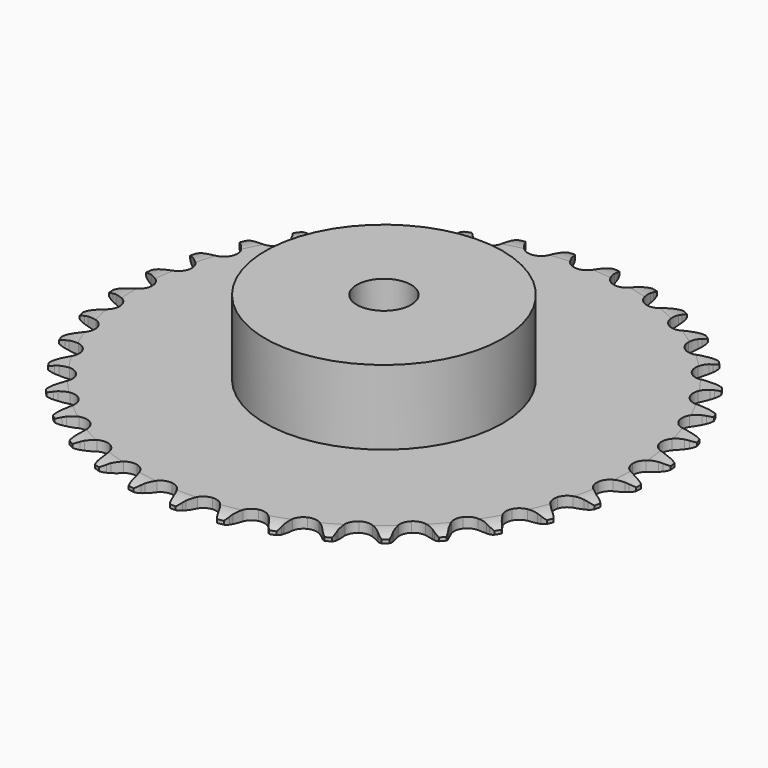
from build123d import *

# Parameters (mm, degrees)
PAD_DEPTH         = 3
SKETCH001_R       = 35
PAD001_DEPTH      = 25
SKETCH002_R       = 8
POCKET_DEPTH      = 0.001
POCKET_DEPTH_BACK = 25.001


with BuildPart() as part:
    # Sprocket → Pad (new body)
    with BuildSketch(Plane.XY):
        with BuildLine():
            ThreePointArc((-6.698559, 78.702366), (-5.642748, 77.523615), (-4.915144, 76.118346))
            Line((-4.915144, 76.118346), (-4.537139, 75.087359))
            ThreePointArc((-4.537139, 75.087359), (-3.938762, 73.75943), (-3.156175, 72.531014))
            ThreePointArc((-3.156175, 72.531014), (-1.766273, 71.36335), (0, 70.944369))
            ThreePointArc((0, 70.944369), (1.766273, 71.36335), (3.156175, 72.531014))
            ThreePointArc((3.156175, 72.531014), (3.938762, 73.75943), (4.537139, 75.087359))
            Line((4.537139, 75.087359), (4.915144, 76.118346))
            ThreePointArc((4.915144, 76.118346), (5.642748, 77.523615), (6.698559, 78.702366))
            ThreePointArc((6.698559, 78.702366), (7.539972, 77.362137), (8.019619, 75.854116))
            Line((8.019619, 75.854116), (8.217949, 74.774076))
            ThreePointArc((8.217949, 74.774076), (8.583298, 73.364122), (9.147025, 72.021117))
            ThreePointArc((9.147025, 72.021117), (10.319598, 70.635355), (11.989657, 69.923899))
            ThreePointArc((11.989657, 69.923899), (13.801331, 70.038352), (15.368577, 70.954325))
            Line((15.368577, 70.954325), (17.161702, 73.240515))
            ThreePointArc((17.161702, 73.240515), (17.422194, 73.724065), (17.708507, 74.192789))
            ThreePointArc((17.708507, 74.192789), (18.663137, 75.454879), (19.90297, 76.438243))
            ThreePointArc((19.90297, 76.438243), (20.505781, 74.975092), (20.723672, 73.407701))
            Line((20.723672, 73.407701), (20.736621, 72.309679))
            ThreePointArc((20.736621, 72.309679), (20.858431, 70.858261), (21.187081, 69.439304))
            ThreePointArc((21.187081, 69.439304), (22.108593, 67.875309), (23.634393, 66.891846))
            ThreePointArc((23.634393, 66.891846), (25.439351, 66.698478), (27.138853, 67.336409))
            Line((27.138853, 67.336409), (29.292553, 69.286676))
            ThreePointArc((29.292553, 69.286676), (29.631019, 69.719247), (29.992428, 70.132841))
            ThreePointArc((29.992428, 70.132841), (31.146621, 71.215444), (32.53481, 71.97513))
            ThreePointArc((32.53481, 71.97513), (32.881676, 70.43115), (32.831543, 68.849481))
            Line((32.831543, 68.849481), (32.658739, 67.765064))
            ThreePointArc((32.658739, 67.765064), (32.533506, 66.313938), (32.617624, 64.859849))
            ThreePointArc((32.617624, 64.859849), (33.261564, 63.162614), (34.59921, 61.935436))
            ThreePointArc((34.59921, 61.935436), (36.345526, 61.43981), (38.128394, 61.781348))
            Line((38.128394, 61.781348), (40.580712, 63.339584))
            ThreePointArc((40.580712, 63.339584), (40.987414, 63.708732), (41.413522, 64.055299))
            ThreePointArc((41.413522, 64.055299), (42.734074, 64.92727), (44.230682, 65.441423))
            ThreePointArc((44.230682, 65.441423), (44.311625, 63.861032), (43.994909, 62.310586))
            Line((43.994909, 62.310586), (43.641324, 61.270971))
            ThreePointArc((43.641324, 61.270971), (43.272651, 59.861883), (43.109816, 58.414494))
            ThreePointArc((43.109816, 58.414494), (43.45766, 56.632846), (44.568671, 55.197256))
            ThreePointArc((44.568671, 55.197256), (46.206107, 54.41363), (48.02105, 54.44895))
            Line((48.02105, 54.44895), (50.701437, 55.570329))
            ThreePointArc((50.701437, 55.570329), (51.164675, 55.865433), (51.643224, 56.135003))
            ThreePointArc((51.643224, 56.135003), (53.092145, 56.771257), (54.654118, 57.025087))
            ThreePointArc((54.654118, 57.025087), (54.46681, 55.453748), (53.892623, 53.979129))
            Line((53.892623, 53.979129), (53.368428, 53.014225))
            ThreePointArc((53.368428, 53.014225), (52.766921, 51.687711), (52.361818, 50.28866))
            ThreePointArc((52.361818, 50.28866), (52.403559, 48.473854), (53.255973, 46.871152))
            ThreePointArc((53.255973, 46.871152), (54.737422, 45.82207), (56.532228, 45.550154))
            Line((56.532228, 45.550154), (59.363574, 46.202416))
            ThreePointArc((59.363574, 46.202416), (59.870022, 46.414988), (60.387245, 46.599805))
            ThreePointArc((60.387245, 46.599805), (61.922852, 46.982038), (63.505255, 46.968242))
            ThreePointArc((63.505255, 46.968242), (63.055083, 45.451161), (62.239944, 44.094791))
            Line((62.239944, 44.094791), (61.560219, 43.232355))
            ThreePointArc((61.560219, 43.232355), (60.743182, 42.026577), (60.107466, 40.716113))
            ThreePointArc((60.107466, 40.716113), (59.841902, 38.920357), (60.411198, 37.19665))
            ThreePointArc((60.411198, 37.19665), (61.694042, 35.912292), (63.417077, 35.340964))
            Line((63.417077, 35.340964), (66.317929, 35.505343))
            ThreePointArc((66.317929, 35.505343), (66.853017, 35.629268), (67.394035, 35.724015))
            ThreePointArc((67.394035, 35.724015), (68.972151, 35.841231), (70.529461, 35.560206))
            ThreePointArc((70.529461, 35.560206), (69.829376, 34.141026), (68.796735, 32.941926))
            Line((68.796735, 32.941926), (67.981035, 32.20677))
            ThreePointArc((67.981035, 32.20677), (66.971973, 31.156415), (66.123932, 29.972238))
            ThreePointArc((66.123932, 29.972238), (65.558703, 28.247193), (65.828502, 26.452068))
            ThreePointArc((65.828502, 26.452068), (66.875836, 24.969382), (68.477532, 24.115078))
            Line((68.477532, 24.115078), (71.364438, 23.786847))
            ThreePointArc((71.364438, 23.786847), (71.912773, 23.818558), (72.462021, 23.820511))
            ThreePointArc((72.462021, 23.820511), (74.037247, 23.669338), (75.524663, 23.129168))
            ThreePointArc((75.524663, 23.129168), (74.594806, 21.848717), (73.374369, 20.841382))
            Line((73.374369, 20.841382), (72.44616, 20.254654))
            ThreePointArc((72.44616, 20.254654), (71.274102, 19.38994), (70.238132, 18.366116))
            ThreePointArc((70.238132, 18.366116), (69.3895, 16.761408), (69.35204, 14.946508))
            ThreePointArc((69.35204, 14.946508), (70.133734, 13.308149), (71.568013, 12.195446))
            Line((71.568013, 12.195446), (74.357922, 11.384046))
            ThreePointArc((74.357922, 11.384046), (74.903729, 11.322632), (75.445406, 11.231733))
            ThreePointArc((75.445406, 11.231733), (76.972426, 10.81652), (78.347158, 10.032746))
            ThreePointArc((78.347158, 10.032746), (77.214279, 8.927859), (75.841156, 8.141269))
            Line((75.841156, 8.141269), (74.827141, 7.719849))
            ThreePointArc((74.827141, 7.719849), (73.525804, 7.065652), (72.331709, 6.231634))
            ThreePointArc((72.331709, 6.231634), (71.224087, 4.793428), (70.880446, 3.010964))
            ThreePointArc((70.880446, 3.010964), (71.374012, 1.264065), (72.599613, -0.075027))
            Line((72.599613, -0.075027), (75.212264, -1.346253))
            ThreePointArc((75.212264, -1.346253), (75.739841, -1.499025), (76.258365, -1.680161))
            ThreePointArc((76.258365, -1.680161), (77.693249, -2.347468), (78.915748, -3.3523))
            ThreePointArc((78.915748, -3.3523), (77.612437, -4.249836), (76.126131, -4.793053))
            Line((76.126131, -4.793053), (75.055481, -5.037043))
            ThreePointArc((75.055481, -5.037043), (73.662304, -5.461902), (72.344434, -6.08212))
            ThreePointArc((72.344434, -6.08212), (71.009686, -7.31245), (70.369751, -9.011199))
            ThreePointArc((70.369751, -9.011199), (70.56099, -10.816384), (71.542654, -12.343342))
            Line((71.542654, -12.343342), (73.902887, -14.037823))
            ThreePointArc((73.902887, -14.037823), (74.397056, -14.277558), (74.877509, -14.543719))
            ThreePointArc((74.877509, -14.543719), (76.178978, -15.443925), (77.214075, -16.640906))
            ThreePointArc((77.214075, -16.640906), (75.777827, -17.305272), (74.221096, -17.589488))
            Line((74.221096, -17.589488), (73.124612, -17.649027))
            ThreePointArc((73.124612, -17.649027), (71.679673, -17.832327), (70.275942, -18.220903))
            ThreePointArc((70.275942, -18.220903), (68.752467, -19.207963), (67.834646, -20.774127))
            ThreePointArc((67.834646, -20.774127), (67.718057, -22.585665), (68.427543, -24.256562))
            Line((68.427543, -24.256562), (70.467457, -26.32555))
            ThreePointArc((70.467457, -26.32555), (70.914003, -26.645352), (71.342564, -26.988882))
            ThreePointArc((71.342564, -26.988882), (72.473177, -28.096088), (73.291094, -29.450784))
            ThreePointArc((73.291094, -29.450784), (71.763227, -29.862866), (70.180855, -29.879906))
            Line((70.180855, -29.879906), (69.090081, -29.753282))
            ThreePointArc((69.090081, -29.753282), (67.634948, -29.689749), (66.185739, -29.835504))
            ThreePointArc((66.185739, -29.835504), (64.517363, -30.550897), (63.348062, -31.939421))
            ThreePointArc((63.348062, -31.939421), (62.926998, -33.705198), (63.343896, -35.471964))
            Line((63.343896, -35.471964), (65.004807, -37.855939))
            ThreePointArc((65.004807, -37.855939), (65.390884, -38.246608), (65.755223, -38.657623))
            ThreePointArc((65.755223, -38.657623), (66.682454, -39.939978), (67.259662, -41.413416))
            ThreePointArc((67.259662, -41.413416), (65.684129, -41.56136), (64.121639, -41.310732))
            Line((64.121639, -41.310732), (63.067954, -41.001588))
            ThreePointArc((63.067954, -41.001588), (61.644489, -40.693051), (60.191493, -40.591792))
            ThreePointArc((60.191493, -40.591792), (58.426213, -41.014937), (57.039069, -42.185876))
            ThreePointArc((57.039069, -42.185876), (56.325644, -43.855094), (56.437961, -45.666902))
            Line((56.437961, -45.666902), (57.672088, -48.297281))
            ThreePointArc((57.672088, -48.297281), (57.986587, -48.747578), (58.276224, -49.214255))
            ThreePointArc((58.276224, -49.214255), (58.973399, -50.634867), (59.293292, -52.18466))
            ThreePointArc((59.293292, -52.18466), (57.715419, -52.064209), (56.21776, -51.553125))
            Line((56.21776, -51.553125), (55.231477, -51.070354))
            ThreePointArc((55.231477, -51.070354), (53.88063, -50.525687), (52.465647, -50.180327))
            ThreePointArc((52.465647, -50.180327), (50.654247, -50.299053), (49.089167, -51.21872))
            ThreePointArc((49.089167, -51.21872), (48.103904, -52.743358), (47.908408, -54.548087))
            Line((47.908408, -54.548087), (48.680247, -57.349199))
            ThreePointArc((48.680247, -57.349199), (48.914122, -57.846169), (49.120724, -58.355082))
            ThreePointArc((49.120724, -58.355082), (49.567786, -59.873083), (49.621161, -61.454646))
            ThreePointArc((49.621161, -61.454646), (48.086341, -61.069266), (46.696598, -60.312427))
            Line((46.696598, -60.312427), (45.806091, -59.669918))
            ThreePointArc((45.806091, -59.669918), (44.566723, -58.904792), (43.23046, -58.325266))
            ThreePointArc((43.23046, -58.325266), (41.425051, -58.136156), (39.727058, -58.778094))
            ThreePointArc((39.727058, -58.778094), (38.498303, -60.114293), (38.000618, -61.860023))
            Line((38.000618, -61.860023), (38.287964, -64.751285))
            ThreePointArc((38.287964, -64.751285), (38.434487, -65.280632), (38.55211, -65.81714))
            ThreePointArc((38.55211, -65.81714), (38.736198, -67.38886), (38.52152, -68.956694))
            ThreePointArc((38.52152, -68.956694), (37.073907, -68.317472), (35.83206, -67.336651))
            Line((35.83206, -67.336651), (35.062947, -66.552888))
            ThreePointArc((35.062947, -66.552888), (33.970714, -65.589313), (32.751611, -64.792294))
            ThreePointArc((32.751611, -64.792294), (31.004131, -64.300788), (29.222074, -64.646531))
            ThreePointArc((29.222074, -64.646531), (27.785175, -65.755848), (26.999619, -67.392358))
            Line((26.999619, -67.392358), (26.794207, -70.290594))
            ThreePointArc((26.794207, -70.290594), (26.849162, -70.837089), (26.874423, -71.385759))
            ThreePointArc((26.874423, -71.385759), (26.790241, -72.965982), (26.313686, -74.474983))
            ThreePointArc((26.313686, -74.474983), (24.994924, -73.600308), (23.9367, -72.423723))
            Line((23.9367, -72.423723), (23.311106, -71.521252))
            ThreePointArc((23.311106, -71.521252), (22.397428, -70.386949), (21.330558, -69.395365))
            ThreePointArc((21.330558, -69.395365), (19.691279, -68.615603), (17.876425, -68.655204))
            ThreePointArc((17.876425, -68.655204), (16.272718, -69.505727), (15.22189, -70.985938))
            Line((15.22189, -70.985938), (14.529628, -73.807771))
            ThreePointArc((14.529628, -73.807771), (14.491435, -74.355692), (14.423607, -74.900739))
            ThreePointArc((14.423607, -74.900739), (14.073577, -76.444005), (13.348854, -77.850763))
            ThreePointArc((13.348854, -77.850763), (12.196882, -76.765797), (11.352723, -75.427295))
            Line((11.352723, -75.427295), (10.888647, -74.43208))
            ThreePointArc((10.888647, -74.43208), (10.179809, -73.15968), (9.295864, -72.002058))
            ThreePointArc((9.295864, -72.002058), (7.811945, -70.956473), (6.016503, -70.688791))
            ThreePointArc((6.016503, -70.688791), (4.292125, -71.256053), (3.006255, -72.537382))
            Line((3.006255, -72.537382), (1.847059, -75.201632))
            ThreePointArc((1.847059, -75.201632), (1.716816, -75.735218), (1.55785, -76.260962))
            ThreePointArc((1.55785, -76.260962), (0.952042, -77.722874), (0, -78.986918))
            ThreePointArc((0, -78.986918), (-0.952042, -77.722874), (-1.55785, -76.260962))
            Line((-1.55785, -76.260962), (-1.847059, -75.201632))
            ThreePointArc((-1.847059, -75.201632), (-2.330664, -73.827741), (-3.006255, -72.537382))
            ThreePointArc((-3.006255, -72.537382), (-4.292125, -71.256053), (-6.016503, -70.688791))
            ThreePointArc((-6.016503, -70.688791), (-7.811945, -70.956473), (-9.295864, -72.002058))
            Line((-9.295864, -72.002058), (-10.888647, -74.43208))
            ThreePointArc((-10.888647, -74.43208), (-11.107193, -74.935979), (-11.352723, -75.427295))
            ThreePointArc((-11.352723, -75.427295), (-12.196882, -76.765797), (-13.348854, -77.850763))
            ThreePointArc((-13.348854, -77.850763), (-14.073577, -76.444005), (-14.423607, -74.900739))
            Line((-14.423607, -74.900739), (-14.529628, -73.807771))
            ThreePointArc((-14.529628, -73.807771), (-14.774088, -72.371912), (-15.22189, -70.985938))
            ThreePointArc((-15.22189, -70.985938), (-16.272718, -69.505727), (-17.876425, -68.655204))
            ThreePointArc((-17.876425, -68.655204), (-19.691279, -68.615603), (-21.330558, -69.395365))
            Line((-21.330558, -69.395365), (-23.311106, -71.521252))
            ThreePointArc((-23.311106, -71.521252), (-23.611668, -71.980968), (-23.9367, -72.423723))
            ThreePointArc((-23.9367, -72.423723), (-24.994924, -73.600308), (-26.313686, -74.474983))
            ThreePointArc((-26.313686, -74.474983), (-26.790241, -72.965982), (-26.874423, -71.385759))
            Line((-26.874423, -71.385759), (-26.794207, -70.290594))
            ThreePointArc((-26.794207, -70.290594), (-26.792489, -68.834075), (-26.999619, -67.392358))
            ThreePointArc((-26.999619, -67.392358), (-27.785175, -65.755848), (-29.222074, -64.646531))
            ThreePointArc((-29.222074, -64.646531), (-31.004131, -64.300788), (-32.751611, -64.792294))
            Line((-32.751611, -64.792294), (-35.062947, -66.552888))
            ThreePointArc((-35.062947, -66.552888), (-35.436878, -66.955196), (-35.83206, -67.336651))
            ThreePointArc((-35.83206, -67.336651), (-37.073907, -68.317472), (-38.52152, -68.956694))
            ThreePointArc((-38.52152, -68.956694), (-38.736198, -67.38886), (-38.55211, -65.81714))
            Line((-38.55211, -65.81714), (-38.287964, -64.751285))
            ThreePointArc((-38.287964, -64.751285), (-38.040119, -63.316007), (-38.000618, -61.860023))
            ThreePointArc((-38.000618, -61.860023), (-38.498303, -60.114293), (-39.727058, -58.778094))
            ThreePointArc((-39.727058, -58.778094), (-41.425051, -58.136156), (-43.23046, -58.325266))
            Line((-43.23046, -58.325266), (-45.806091, -59.669918))
            ThreePointArc((-45.806091, -59.669918), (-46.242634, -60.003245), (-46.696598, -60.312427))
            ThreePointArc((-46.696598, -60.312427), (-48.086341, -61.069266), (-49.621161, -61.454646))
            ThreePointArc((-49.621161, -61.454646), (-49.567786, -59.873083), (-49.120724, -58.355082))
            Line((-49.120724, -58.355082), (-48.680247, -57.349199))
            ThreePointArc((-48.680247, -57.349199), (-48.193403, -55.976453), (-47.908408, -54.548087))
            ThreePointArc((-47.908408, -54.548087), (-48.103904, -52.743358), (-49.089167, -51.21872))
            ThreePointArc((-49.089167, -51.21872), (-50.654247, -50.299053), (-52.465647, -50.180327))
            Line((-52.465647, -50.180327), (-55.231477, -51.070354))
            ThreePointArc((-55.231477, -51.070354), (-55.718074, -51.32511), (-56.21776, -51.553125))
            ThreePointArc((-56.21776, -51.553125), (-57.715419, -52.064209), (-59.293292, -52.18466))
            ThreePointArc((-59.293292, -52.18466), (-58.973399, -50.634867), (-58.276224, -49.214255))
            Line((-58.276224, -49.214255), (-57.672088, -48.297281))
            ThreePointArc((-57.672088, -48.297281), (-56.960251, -47.026558), (-56.437961, -45.666902))
            ThreePointArc((-56.437961, -45.666902), (-56.325644, -43.855094), (-57.039069, -42.185876))
            ThreePointArc((-57.039069, -42.185876), (-58.426213, -41.014937), (-60.191493, -40.591792))
            Line((-60.191493, -40.591792), (-63.067954, -41.001588))
            ThreePointArc((-63.067954, -41.001588), (-63.590606, -41.170445), (-64.121639, -41.310732))
            ThreePointArc((-64.121639, -41.310732), (-65.684129, -41.56136), (-67.259662, -41.413416))
            ThreePointArc((-67.259662, -41.413416), (-66.682454, -39.939978), (-65.755223, -38.657623))
            Line((-65.755223, -38.657623), (-65.004807, -37.855939))
            ThreePointArc((-65.004807, -37.855939), (-64.088457, -36.723794), (-63.343896, -35.471964))
            ThreePointArc((-63.343896, -35.471964), (-62.926998, -33.705198), (-63.348062, -31.939421))
            ThreePointArc((-63.348062, -31.939421), (-64.517363, -30.550897), (-66.185739, -29.835504))
            Line((-66.185739, -29.835504), (-69.090081, -29.753282))
            ThreePointArc((-69.090081, -29.753282), (-69.633752, -29.831381), (-70.180855, -29.879906))
            ThreePointArc((-70.180855, -29.879906), (-71.763227, -29.862866), (-73.291094, -29.450784))
            ThreePointArc((-73.291094, -29.450784), (-72.473177, -28.096088), (-71.342564, -26.988882))
            Line((-71.342564, -26.988882), (-70.467457, -26.32555))
            ThreePointArc((-70.467457, -26.32555), (-69.372954, -25.364554), (-68.427543, -24.256562))
            ThreePointArc((-68.427543, -24.256562), (-67.718057, -22.585665), (-67.834646, -20.774127))
            ThreePointArc((-67.834646, -20.774127), (-68.752467, -19.207963), (-70.275942, -18.220903))
            Line((-70.275942, -18.220903), (-73.124612, -17.649027))
            ThreePointArc((-73.124612, -17.649027), (-73.673661, -17.634122), (-74.221096, -17.589488))
            ThreePointArc((-74.221096, -17.589488), (-75.777827, -17.305272), (-77.214075, -16.640906))
            ThreePointArc((-77.214075, -16.640906), (-76.178978, -15.443925), (-74.877509, -14.543719))
            Line((-74.877509, -14.543719), (-73.902887, -14.037823))
            ThreePointArc((-73.902887, -14.037823), (-72.661718, -13.275622), (-71.542654, -12.343342))
            ThreePointArc((-71.542654, -12.343342), (-70.56099, -10.816384), (-70.369751, -9.011199))
            ThreePointArc((-70.369751, -9.011199), (-71.009686, -7.31245), (-72.344434, -6.08212))
            Line((-72.344434, -6.08212), (-75.055481, -5.037043))
            ThreePointArc((-75.055481, -5.037043), (-75.594114, -4.929562), (-76.126131, -4.793053))
            ThreePointArc((-76.126131, -4.793053), (-77.612437, -4.249836), (-78.915748, -3.3523))
            ThreePointArc((-78.915748, -3.3523), (-77.693249, -2.347468), (-76.258365, -1.680161))
            Line((-76.258365, -1.680161), (-75.212264, -1.346253))
            ThreePointArc((-75.212264, -1.346253), (-73.860136, -0.804774), (-72.599613, -0.075027))
            ThreePointArc((-72.599613, -0.075027), (-71.374012, 1.264065), (-70.880446, 3.010964))
            ThreePointArc((-70.880446, 3.010964), (-71.224087, 4.793428), (-72.331709, 6.231634))
            Line((-72.331709, 6.231634), (-74.827141, 7.719849))
            ThreePointArc((-74.827141, 7.719849), (-75.339862, 7.916812), (-75.841156, 8.141269))
            ThreePointArc((-75.841156, 8.141269), (-77.214279, 8.927859), (-78.347158, 10.032746))
            ThreePointArc((-78.347158, 10.032746), (-76.972426, 10.81652), (-75.445406, 11.231733))
            Line((-75.445406, 11.231733), (-74.357922, 11.384046))
            ThreePointArc((-74.357922, 11.384046), (-72.933733, 11.689225), (-71.568013, 12.195446))
            ThreePointArc((-71.568013, 12.195446), (-70.133734, 13.308149), (-69.35204, 14.946508))
            ThreePointArc((-69.35204, 14.946508), (-69.3895, 16.761408), (-70.238132, 18.366116))
            Line((-70.238132, 18.366116), (-72.44616, 20.254654))
            ThreePointArc((-72.44616, 20.254654), (-72.918218, 20.535434), (-73.374369, 20.841382))
            ThreePointArc((-73.374369, 20.841382), (-74.594806, 21.848717), (-75.524663, 23.129168))
            ThreePointArc((-75.524663, 23.129168), (-74.037247, 23.669338), (-72.462021, 23.820511))
            Line((-72.462021, 23.820511), (-71.364438, 23.786847))
            ThreePointArc((-71.364438, 23.786847), (-69.909159, 23.846947), (-68.477532, 24.115078))
            ThreePointArc((-68.477532, 24.115078), (-66.875836, 24.969382), (-65.828502, 26.452068))
            ThreePointArc((-65.828502, 26.452068), (-65.558703, 28.247193), (-66.123932, 29.972238))
            Line((-66.123932, 29.972238), (-67.981035, 32.20677))
            ThreePointArc((-67.981035, 32.20677), (-68.398851, 32.56329), (-68.796735, 32.941926))
            ThreePointArc((-68.796735, 32.941926), (-69.829376, 34.141026), (-70.529461, 35.560206))
            ThreePointArc((-70.529461, 35.560206), (-68.972151, 35.841231), (-67.394035, 35.724015))
            Line((-67.394035, 35.724015), (-66.317929, 35.505343))
            ThreePointArc((-66.317929, 35.505343), (-64.873426, 35.318636), (-63.417077, 35.340964))
            ThreePointArc((-63.417077, 35.340964), (-61.694042, 35.912292), (-60.411198, 37.19665))
            ThreePointArc((-60.411198, 37.19665), (-59.841902, 38.920357), (-60.107466, 40.716113))
            Line((-60.107466, 40.716113), (-61.560219, 43.232355))
            ThreePointArc((-61.560219, 43.232355), (-61.911773, 43.654358), (-62.239944, 44.094791))
            ThreePointArc((-62.239944, 44.094791), (-63.055083, 45.451161), (-63.505255, 46.968242))
            ThreePointArc((-63.505255, 46.968242), (-61.922852, 46.982038), (-60.387245, 46.599805))
            Line((-60.387245, 46.599805), (-59.363574, 46.202416))
            ThreePointArc((-59.363574, 46.202416), (-57.971402, 45.774271), (-56.532228, 45.550154))
            ThreePointArc((-56.532228, 45.550154), (-54.737422, 45.82207), (-53.255973, 46.871152))
            ThreePointArc((-53.255973, 46.871152), (-52.403559, 48.473854), (-52.361818, 50.28866))
            Line((-52.361818, 50.28866), (-53.368428, 53.014225))
            ThreePointArc((-53.368428, 53.014225), (-53.643606, 53.48957), (-53.892623, 53.979129))
            ThreePointArc((-53.892623, 53.979129), (-54.46681, 55.453748), (-54.654118, 57.025087))
            ThreePointArc((-54.654118, 57.025087), (-53.092145, 56.771257), (-51.643224, 56.135003))
            Line((-51.643224, 56.135003), (-50.701437, 55.570329))
            ThreePointArc((-50.701437, 55.570329), (-49.401647, 54.913065), (-48.02105, 54.44895))
            ThreePointArc((-48.02105, 54.44895), (-46.206107, 54.41363), (-44.568671, 55.197256))
            ThreePointArc((-44.568671, 55.197256), (-43.45766, 56.632846), (-43.109816, 58.414494))
            Line((-43.109816, 58.414494), (-43.641324, 61.270971))
            ThreePointArc((-43.641324, 61.270971), (-43.832211, 61.785985), (-43.994909, 62.310586))
            ThreePointArc((-43.994909, 62.310586), (-44.311625, 63.861032), (-44.230682, 65.441423))
            ThreePointArc((-44.230682, 65.441423), (-42.734074, 64.92727), (-41.413522, 64.055299))
            Line((-41.413522, 64.055299), (-40.580712, 63.339584))
            ThreePointArc((-40.580712, 63.339584), (-39.410696, 62.472109), (-38.128394, 61.781348))
            ThreePointArc((-38.128394, 61.781348), (-36.345526, 61.43981), (-34.59921, 61.935436))
            ThreePointArc((-34.59921, 61.935436), (-33.261564, 63.162614), (-32.617624, 64.859849))
            Line((-32.617624, 64.859849), (-32.658739, 67.765064))
            ThreePointArc((-32.658739, 67.765064), (-32.759842, 68.30493), (-32.831543, 68.849481))
            ThreePointArc((-32.831543, 68.849481), (-32.881676, 70.43115), (-32.53481, 71.97513))
            ThreePointArc((-32.53481, 71.97513), (-31.146621, 71.215444), (-29.992428, 70.132841))
            Line((-29.992428, 70.132841), (-29.292553, 69.286676))
            ThreePointArc((-29.292553, 69.286676), (-28.285971, 68.233945), (-27.138853, 67.336409))
            ThreePointArc((-27.138853, 67.336409), (-25.439351, 66.698478), (-23.634393, 66.891846))
            ThreePointArc((-23.634393, 66.891846), (-22.108593, 67.875309), (-21.187081, 69.439304))
            Line((-21.187081, 69.439304), (-20.736621, 72.309679))
            ThreePointArc((-20.736621, 72.309679), (-20.745032, 72.858866), (-20.723672, 73.407701))
            ThreePointArc((-20.723672, 73.407701), (-20.505781, 74.975092), (-19.90297, 76.438243))
            ThreePointArc((-19.90297, 76.438243), (-18.663137, 75.454879), (-17.708507, 74.192789))
            Line((-17.708507, 74.192789), (-17.161702, 73.240515))
            ThreePointArc((-17.161702, 73.240515), (-16.347511, 72.032814), (-15.368577, 70.954325))
            ThreePointArc((-15.368577, 70.954325), (-13.801331, 70.038352), (-11.989657, 69.923899))
            ThreePointArc((-11.989657, 69.923899), (-10.319598, 70.635355), (-9.147025, 72.021117))
            Line((-9.147025, 72.021117), (-8.217949, 74.774076))
            ThreePointArc((-8.217949, 74.774076), (-8.133426, 75.316785), (-8.019619, 75.854116))
            ThreePointArc((-8.019619, 75.854116), (-7.539972, 77.362137), (-6.698559, 78.702366))
        make_face()
    extrude(amount=PAD_DEPTH)

    # Sketch → Groove (revolve, cut)
    with BuildSketch(Plane.XZ):
        with BuildLine():
            Line((72.85, 0), (77.85, 0))
            Line((82.85, 0), (77.85, 0))
            Line((82.85, 3), (82.85, 0))
            Line((77.85, 3), (82.85, 3))
            Line((72.85, 3), (77.85, 3))
            ThreePointArc((77.85, 2), (75.39951, 2.747549), (72.85, 3))
            Line((77.85, 1), (77.85, 2))
            ThreePointArc((72.85, 0), (75.39951, 0.252451), (77.85, 1))
        make_face()
    revolve(axis=Axis((0, 0, 0), (0, 0, 1)), mode=Mode.SUBTRACT)

    # Sketch001 → Pad001 (join)
    with BuildSketch(Plane.XY):
        Circle(SKETCH001_R)
    extrude(amount=PAD001_DEPTH)

    # Sketch002 → Pocket (cut, two sides)
    with BuildSketch(Plane.XY) as pocket_sk:
        Circle(SKETCH002_R)
    extrude(amount=-POCKET_DEPTH, mode=Mode.SUBTRACT)
    extrude(pocket_sk.sketch, amount=POCKET_DEPTH_BACK, mode=Mode.SUBTRACT)


solid = part.part
